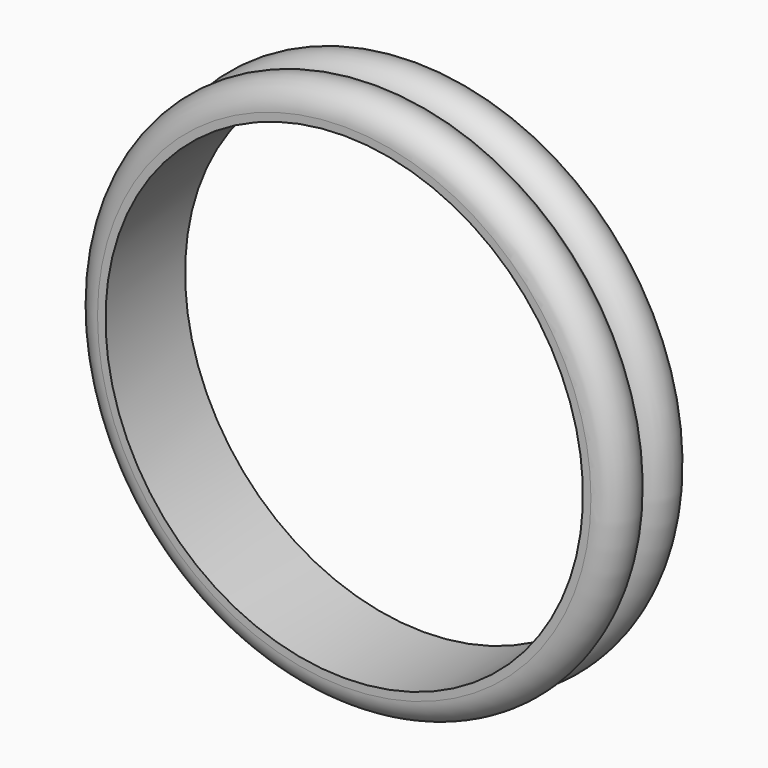
from build123d import *


with BuildPart() as f1:
    # F0 (on Right) → F1 (revolve)
    with BuildSketch(Plane.YZ):
        with BuildLine():
            Line((-1.25, 6.2), (-1.25, 6))
            Line((-1.25, 6), (1.25, 6))
            Line((1.25, 6), (1.25, 6.2))
            ThreePointArc((1.25, 6.2), (0.741945, 6.813962), (0.043764, 6.429759))
            ThreePointArc((0.043764, 6.429759), (0, 6.4), (-0.043764, 6.429759))
            ThreePointArc((-0.043764, 6.429759), (-0.741945, 6.813962), (-1.25, 6.2))
        make_face()
    revolve(axis=Axis((0, 11.747418, 0), (0, 1, 0)))


solid = f1.part
